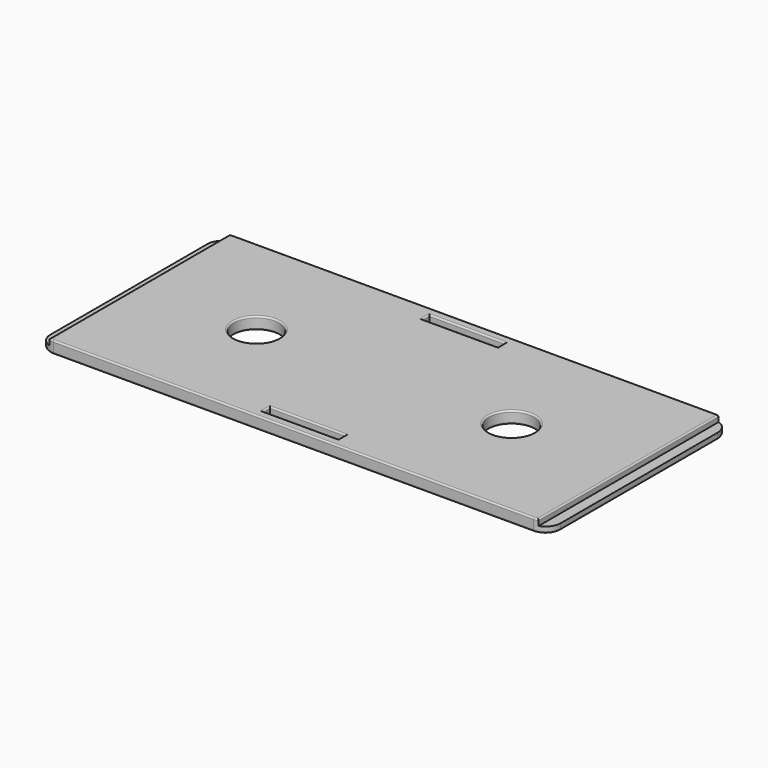
from build123d import *

# Parameters (mm, degrees)
F0_W     = 169
F0_H     = 75
F0_R     = 7.5
F1_DEPTH = 2
F2_W     = 162
F2_H     = 75
F2_W_2   = 25
F2_H_2   = 3
F3_DEPTH = 2
F4_R     = 5
F5_DEPTH = 25
F6_DEPTH = 25
F7_R     = 0.5


with BuildPart() as f1:
    # F0 (on Top) → F1 (new body)
    with BuildSketch(Plane.XY):
        Rectangle(F0_W, F0_H)
        with Locations((-42.25, 0)):
            Circle(F0_R, mode=Mode.SUBTRACT)
        with Locations((42.25, 0)):
            Circle(F0_R, mode=Mode.SUBTRACT)
    extrude(amount=F1_DEPTH)

    # F2 (on face) → F3 (join)
    with BuildSketch(Plane.XY.offset(2)):
        Rectangle(F2_W, F2_H)
        with Locations((0, -33)):
            Rectangle(F2_W_2, F2_H_2, mode=Mode.SUBTRACT)
        with Locations((0, 33)):
            Rectangle(F2_W_2, F2_H_2, mode=Mode.SUBTRACT)
    extrude(amount=F3_DEPTH)

    # F4
    f4_edges = [f1.edges().sort_by_distance(p)[0] for p in [
        (-84.5, -37.5, 1),
        (84.5, -37.5, 1),
        (84.5, 37.5, 1),
        (-84.5, 37.5, 1),
    ]]
    fillet(f4_edges, radius=F4_R)

    # F0 (on Top) → F5 (cut)
    with BuildSketch(Plane.XY):
        with Locations((42.25, 0)):
            Circle(F0_R)
        with Locations((-42.25, 0)):
            Circle(F0_R)
    extrude(amount=F5_DEPTH, mode=Mode.SUBTRACT)

    # F2 (on face) → F6 (cut)
    with BuildSketch(Plane.XY.offset(2)):
        with Locations((0, 33)):
            Rectangle(F2_W_2, F2_H_2)
        with Locations((0, -33)):
            Rectangle(F2_W_2, F2_H_2)
    extrude(amount=-F6_DEPTH, mode=Mode.SUBTRACT)

    # F7
    f7_edges = [f1.edges().sort_by_distance(p)[0] for p in [
        (0, 37.5, 4),
        (80.258788, 37.442089, 4),
        (-80.258788, 37.442089, 4),
        (81, 0, 4),
        (-81, 0, 4),
        (80.258788, -37.442089, 4),
        (-80.258788, -37.442089, 4),
        (0, -37.5, 4),
        (-12.5, -33, 4),
        (0, -34.5, 4),
        (0, -31.5, 4),
        (12.5, -33, 4),
        (-49.75, 0, 4),
        (34.75, 0, 4),
        (-12.5, 33, 4),
        (0, 31.5, 4),
        (0, 34.5, 4),
        (12.5, 33, 4),
        (0, -37.5, 0),
        (-83.035534, -36.035534, 0),
        (83.035534, -36.035534, 0),
        (-84.5, 0, 0),
        (84.5, 0, 0),
        (-83.035534, 36.035534, 0),
        (83.035534, 36.035534, 0),
        (0, 37.5, 0),
        (0, -31.5, 0),
        (-12.5, -33, 0),
        (0, -34.5, 0),
        (12.5, -33, 0),
        (-49.75, 0, 0),
        (34.75, 0, 0),
        (0, 34.5, 0),
        (-12.5, 33, 0),
        (0, 31.5, 0),
        (12.5, 33, 0),
    ]]
    fillet(f7_edges, radius=F7_R)


solid = f1.part
